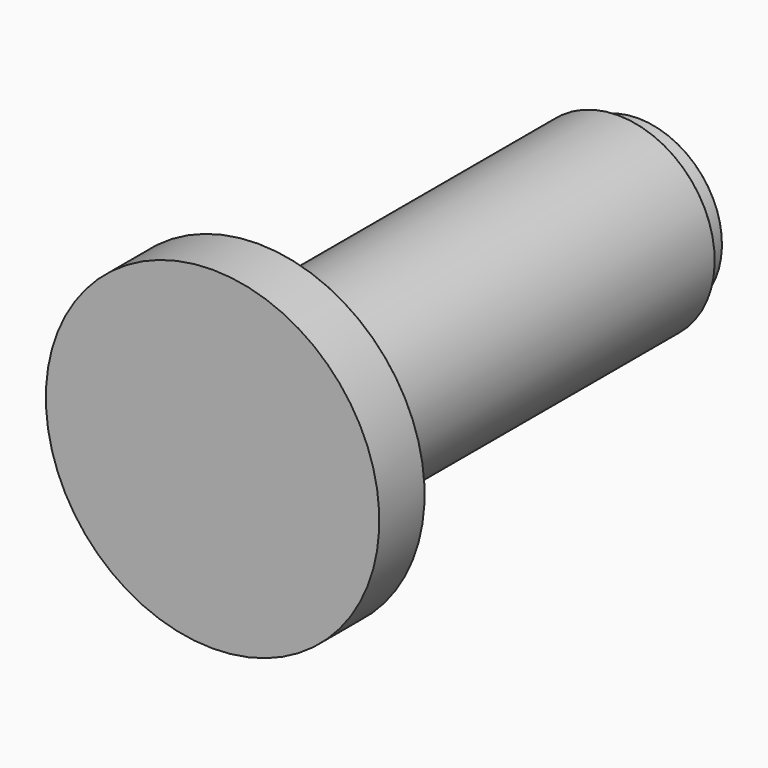
from build123d import *

# Parameters (mm, degrees)
F2_R = 0.5


with BuildPart() as f1:
    # F0 (on Right) → F1 (revolve)
    with BuildSketch(Plane.YZ):
        Polygon((0, 100), (0, 0), (319.253526, 0), (319.253526, 50.35), (308.253526, 50.35), (308.253526, 48.35), (304.253526, 48.35), (304.253526, 58), (14.253526, 58), (14.253526, 87.1), (18.253526, 87.1), (18.253526, 85.1), (34.253526, 85.1), (34.253526, 100), align=None)
    revolve(axis=Axis((0, 159.626763, 0), (0, 1, 0)))

    # F2
    f2_edges = [f1.edges().sort_by_distance(p)[0] for p in [
        (0, 319.253526, -50.35),
        (0, 304.253526, -48.35),
        (0, 304.253526, -58),
        (0, 34.253526, -85.1),
        (0, 34.253526, -100),
    ]]
    fillet(f2_edges, radius=F2_R)


solid = f1.part
